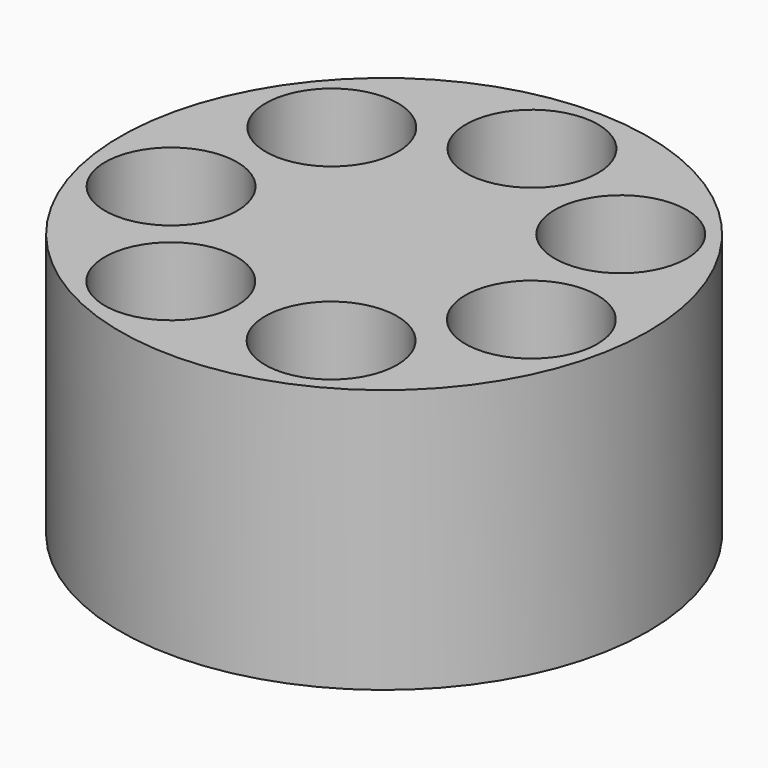
from build123d import *

# Parameters (mm, degrees)
F0_R     = 50
F1_DEPTH = 50
F2_R     = 12.5
F3_DEPTH = 50


with BuildPart() as f1:
    # F0 (on Top) → F1 (new body)
    with BuildSketch(Plane.XY):
        Circle(F0_R)
    extrude(amount=F1_DEPTH)

    # F2 (on face) → F3 (cut, through all)
    with BuildSketch(Plane.XY.offset(50)):
        with Locations((-15.185931, -31.53391)):
            Circle(F2_R)
        with Locations((15.185931, -31.53391)):
            Circle(F2_R)
        with Locations((34.122477, -7.788233)):
            Circle(F2_R)
        with Locations((27.364102, 21.822143)):
            Circle(F2_R)
        with Locations((0, 35)):
            Circle(F2_R)
        with Locations((-27.364102, 21.822143)):
            Circle(F2_R)
        with Locations((-34.122477, -7.788233)):
            Circle(F2_R)
    extrude(amount=-F3_DEPTH, mode=Mode.SUBTRACT)


solid = f1.part
